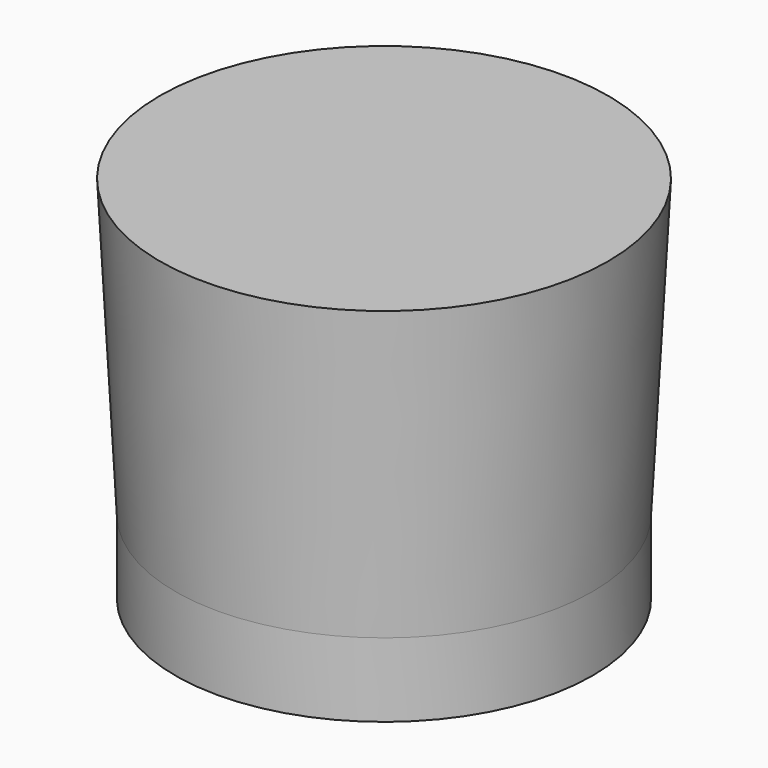
from build123d import *

# Parameters (mm, degrees)
F0_R     = 17.9136666358
F1_DEPTH = 6.35
F2_R     = 17.9136666358
F3_DEPTH = 25.4
F3_TAPER = -3


with BuildPart() as f1:
    # F0 (on Top) → F1 (new body)
    with BuildSketch(Plane.XY):
        Circle(F0_R)
    extrude(amount=F1_DEPTH)

    # F2 (on face) → F3 (join)
    with BuildSketch(Plane.XY.offset(6.35)):
        Circle(F2_R)
    extrude(amount=F3_DEPTH, taper=F3_TAPER)


solid = f1.part
